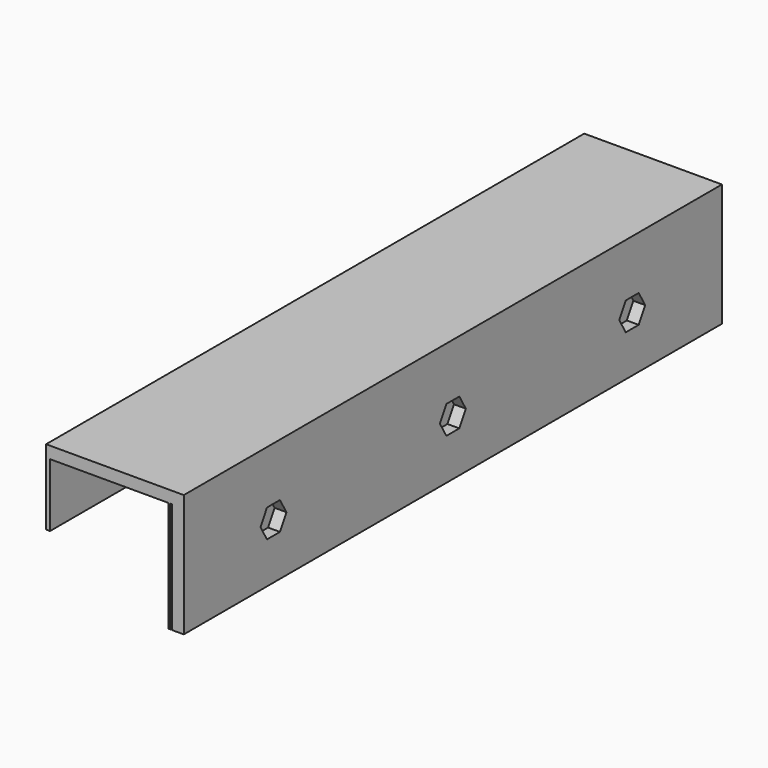
from build123d import *

# Parameters (mm, degrees)
SKETCH001_W  = 34.8
SKETCH001_H  = 170
PAD_DEPTH    = 3
SKETCH002_W  = 1
SKETCH002_H  = 170
PAD001_DEPTH = 16
SKETCH_W     = 3
SKETCH_H     = 170
SKETCH_W_2   = 0.5
PAD002_DEPTH = 28
POCKET_DEPTH = 3


with BuildPart() as part:
    # Sketch001 (on DatumPlane) → Pad (new body)
    with BuildSketch(Plane.XY.offset(28)):
        Rectangle(SKETCH001_W, SKETCH001_H)
    extrude(amount=PAD_DEPTH)

    # Sketch002 (on DatumPlane) → Pad001 (join)
    with BuildSketch(Plane.XY.offset(28)):
        with Locations((-16.9, 0)):
            Rectangle(SKETCH002_W, SKETCH002_H)
    extrude(amount=-PAD001_DEPTH)

    # Sketch (on DatumPlane) → Pad002 (join)
    with BuildSketch(Plane.XY.offset(28)):
        with Locations((15.9, 0)):
            Rectangle(SKETCH_W, SKETCH_H)
        with Locations((13.85, 0)):
            Rectangle(SKETCH_W_2, SKETCH_H)
    extrude(amount=-PAD002_DEPTH)

    # Sketch003 (on Face12 of Pad002) → Pocket (cut)
    with BuildSketch(Plane(origin=(17.4, 0, 28), x_dir=(0, 1, 0), z_dir=(1, 0, 0))):
        Polygon((-54.617073, -17.55), (-52.56748, -14), (-54.617073, -10.45), (-58.71626, -10.45), (-60.765854, -14), (-58.71626, -17.55), align=None)
        Polygon((2.049593, -17.55), (4.099187, -14), (2.049593, -10.45), (-2.049593, -10.45), (-4.099187, -14), (-2.049593, -17.55), align=None)
        Polygon((54.617073, -17.55), (58.71626, -17.55), (60.765854, -14), (58.71626, -10.45), (54.617073, -10.45), (52.56748, -14), align=None)
    extrude(amount=-POCKET_DEPTH, mode=Mode.SUBTRACT)


solid = part.part
